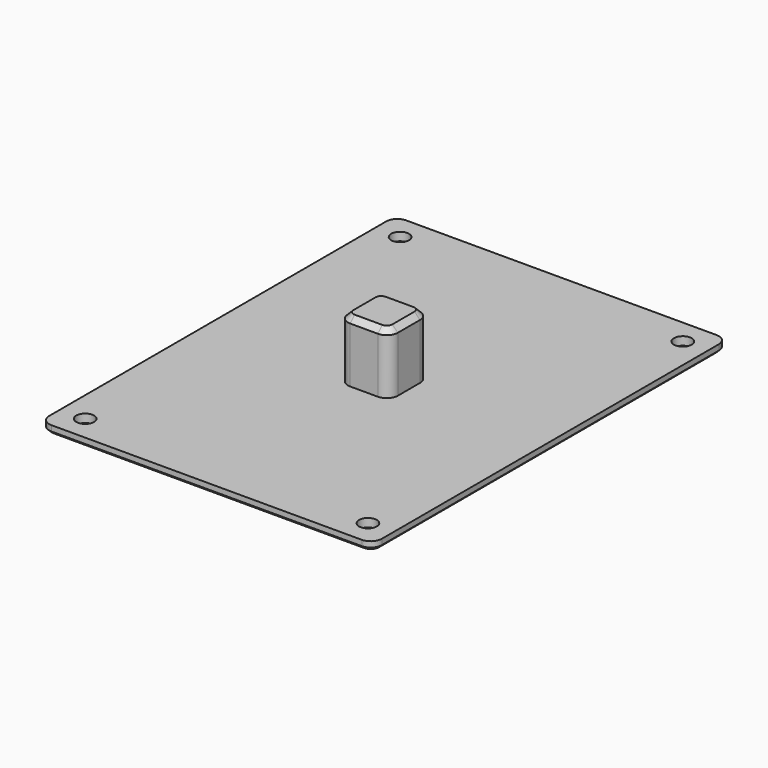
from build123d import *

# Parameters (mm, degrees)
SKETCH_W        = 60
SKETCH_H        = 80
PAD_DEPTH       = 1.5
SKETCH001_R     = 1.6
POCKET_DEPTH    = 5
SKETCH002_W     = 9
SKETCH002_H     = 9
PAD001_DEPTH    = 11
FILLET_R        = 2
CHAMFER_SIZE    = 1
FILLET001_R     = 2
CHAMFER001_SIZE = 0.5


with BuildPart() as part:
    # Sketch → Pad (new body)
    with BuildSketch(Plane.XY):
        with Locations((30, -40)):
            Rectangle(SKETCH_W, SKETCH_H)
    extrude(amount=PAD_DEPTH)

    # Sketch001 (on Face6 of Pad) → Pocket (cut)
    with BuildSketch(Plane.XY.offset(1.5)):
        with Locations((4.5, -4.5)):
            Circle(SKETCH001_R)
        with Locations((55.5, -4.5)):
            Circle(SKETCH001_R)
        with Locations((4.5, -75.5)):
            Circle(SKETCH001_R)
        with Locations((55.5, -75.5)):
            Circle(SKETCH001_R)
    extrude(amount=-POCKET_DEPTH, mode=Mode.SUBTRACT)

    # Sketch002 (on Face5 of Pocket) → Pad001 (join)
    with BuildSketch(Plane.XY.offset(1.5)):
        with Locations((30, -40)):
            Rectangle(SKETCH002_W, SKETCH002_H)
    extrude(amount=PAD001_DEPTH)

    # Fillet
    fillet_edges = [part.edges().sort_by_distance(p)[0] for p in [
        (25.5, -44.5, 7),
        (34.5, -44.5, 7),
        (34.5, -35.5, 7),
        (25.5, -35.5, 7),
    ]]
    fillet(fillet_edges, radius=FILLET_R)

    # Chamfer
    chamfer_edges = [part.edges().sort_by_distance(p)[0] for p in [
        (30, -44.5, 12.5),
    ]]
    chamfer(chamfer_edges, length=CHAMFER_SIZE)

    # Fillet001
    fillet001_edges = [part.edges().sort_by_distance(p)[0] for p in [
        (0, -80, 0.75),
        (60, -80, 0.75),
        (60, 0, 0.75),
        (0, 0, 0.75),
    ]]
    fillet(fillet001_edges, radius=FILLET001_R)

    # Chamfer001
    chamfer001_edges = [part.edges().sort_by_distance(p)[0] for p in [
        (30, 0, 0),
    ]]
    chamfer(chamfer001_edges, length=CHAMFER001_SIZE)


solid = part.part
